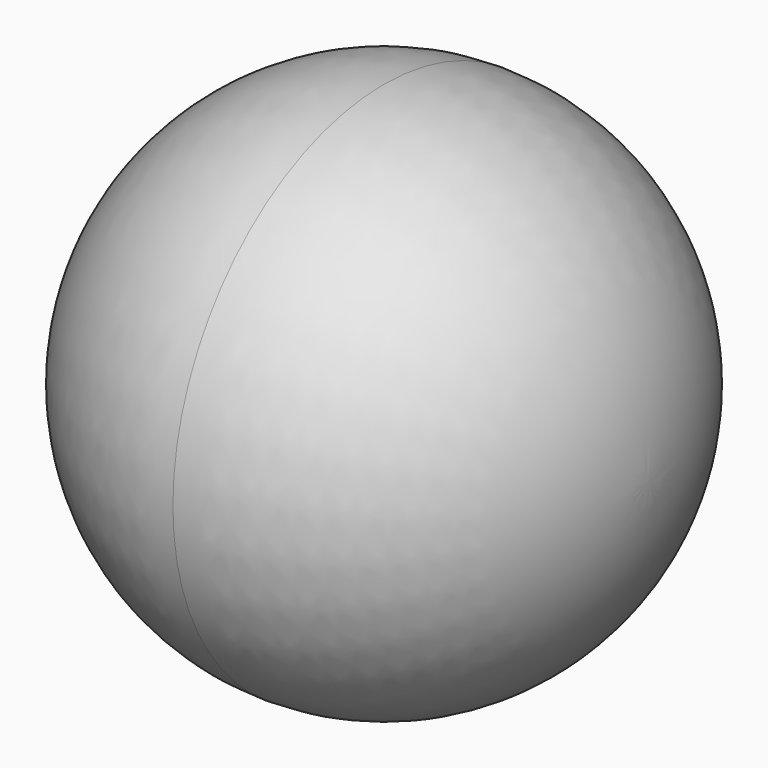
from build123d import *


with BuildPart() as f1:
    # F0 (on Front) → F1 (revolve)
    with BuildSketch(Plane.XZ):
        with BuildLine():
            Line((0, 0), (23.122672, 0))
            ThreePointArc((23.122672, 0), (16.350198, 16.350198), (0, 23.122672))
            Line((0, 23.122672), (0, 0))
        make_face()
        with BuildLine():
            Line((0, 0), (0, 23.122672))
            ThreePointArc((0, 23.122672), (-16.350198, 16.350198), (-23.122672, 0))
            Line((-23.122672, 0), (0, 0))
        make_face()
    revolve(axis=Axis((0, 0, 0), (-1, 0, 0)))


solid = f1.part
